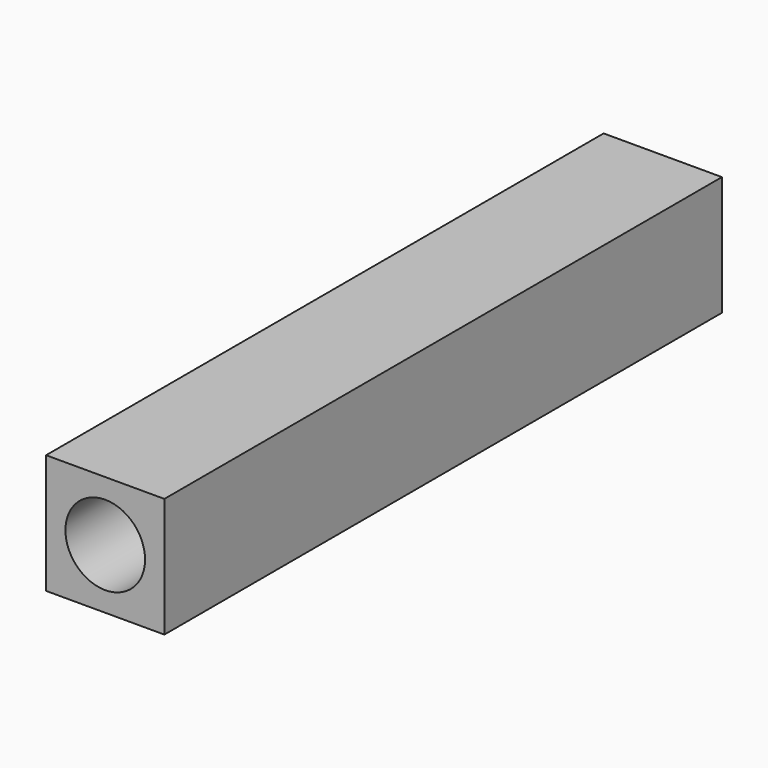
from build123d import *

# Parameters (mm, degrees)
F0_W      = 5.940712
F0_H      = 6
F0_R      = 2
F1_DEPTH  = 10
F1_FACE_W = 5.940712
F1_FACE_H = 6
F1_FACE_R = 2
F2_DEPTH  = 25


with BuildPart() as f1:
    # F0 (on Front) → F1 (new body)
    with BuildSketch(Plane.XZ):
        Rectangle(F0_W, F0_H)
        Circle(F0_R, mode=Mode.SUBTRACT)
    extrude(amount=F1_DEPTH)

    # F1_face (on face) → F2 (join)
    with BuildSketch(Plane.XZ.offset(10)):
        Rectangle(F1_FACE_W, F1_FACE_H)
        Circle(F1_FACE_R, mode=Mode.SUBTRACT)
    extrude(amount=F2_DEPTH)


solid = f1.part
